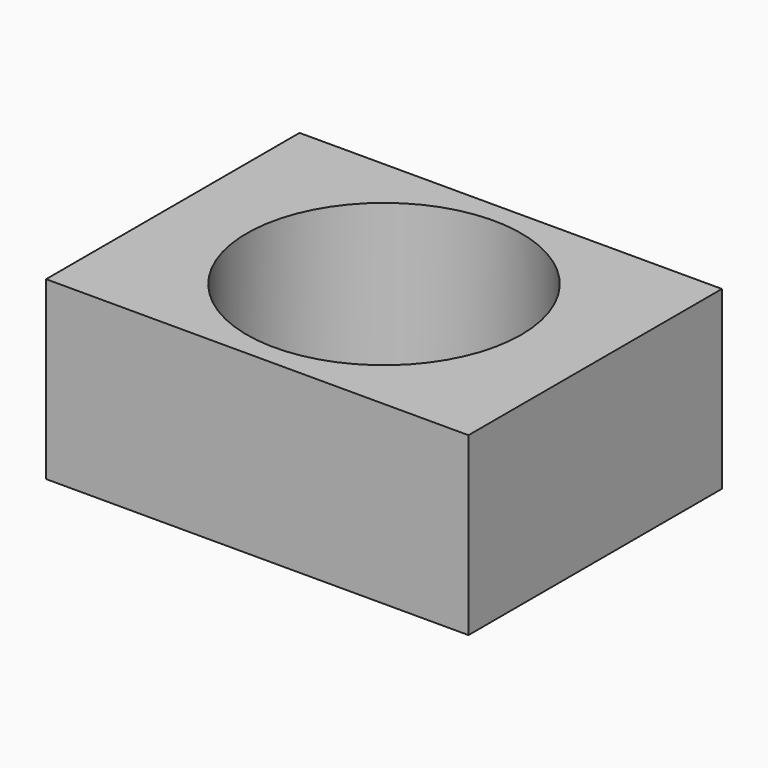
from build123d import *

# Parameters (mm, degrees)
F0_R     = 22.5
F1_DEPTH = 25
F2_R     = 19.5
F3_DEPTH = 25.001
F5_DEPTH = 25


with BuildPart() as f1:
    # F0 (on Top) → F1 (new body)
    with BuildSketch(Plane.XY):
        Circle(F0_R)
    extrude(amount=F1_DEPTH)

    # F2 (on Top) → F3 (cut, through all)
    with BuildSketch(Plane.XY):
        Circle(F2_R)
    extrude(amount=F3_DEPTH, mode=Mode.SUBTRACT)

    # F4 (on face) → F5 (join)
    with BuildSketch(Plane(origin=(0, 0, 0), x_dir=(1, 0, 0), z_dir=(0, 0, -1))):
        with BuildLine():
            Line((-30, -22.5), (5.03e-08, -22.5))
            ThreePointArc((5.03e-08, -22.5), (-22.5, -1.28e-08), (2.47e-08, 22.5))
            Line((2.47e-08, 22.5), (-30, 22.5))
            Line((-30, 22.5), (-30, -22.5))
        make_face()
        with BuildLine():
            Line((5.03e-08, -22.5), (30, -22.5))
            Line((30, -22.5), (30, 22.5))
            Line((30, 22.5), (2.47e-08, 22.5))
            ThreePointArc((2.47e-08, 22.5), (15.9099025854, 15.909902568), (22.5, 0))
            ThreePointArc((22.5, 0), (15.9099025945, -15.9099025589), (5.03e-08, -22.5))
        make_face()
    extrude(amount=-F5_DEPTH)


solid = f1.part
